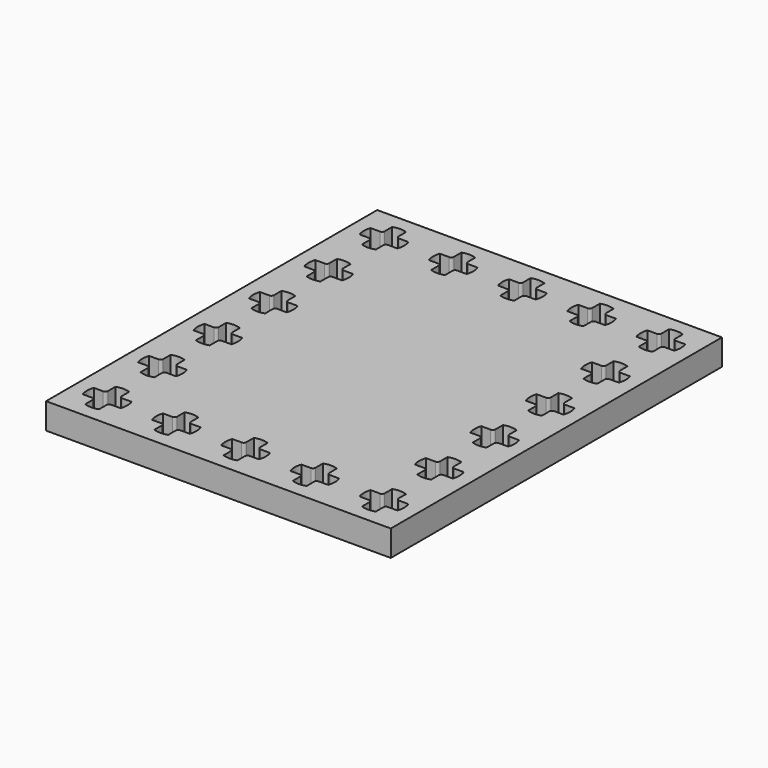
from build123d import *

# Parameters (mm, degrees)
F0_W     = 39.85
F0_H     = 47.85
F1_DEPTH = 3


with BuildPart() as f1:
    # F0 (on Top) → F1 (new body)
    with BuildSketch(Plane.XY):
        Rectangle(F0_W, F0_H)
        with BuildLine():
            ThreePointArc((-16.8, -17.816969), (-16, -17.675), (-15.2, -17.816969))
            Line((-15.2, -17.816969), (-15.2, -18.9))
            ThreePointArc((-15.2, -18.9), (-15.112132, -19.112132), (-14.9, -19.2))
            Line((-14.9, -19.2), (-13.816969, -19.2))
            ThreePointArc((-13.816969, -19.2), (-13.675, -20), (-13.816969, -20.8))
            Line((-13.816969, -20.8), (-14.9, -20.8))
            ThreePointArc((-14.9, -20.8), (-15.112132, -20.887868), (-15.2, -21.1))
            Line((-15.2, -21.1), (-15.2, -22.183031))
            ThreePointArc((-15.2, -22.183031), (-16, -22.325), (-16.8, -22.183031))
            Line((-16.8, -22.183031), (-16.8, -21.1))
            ThreePointArc((-16.8, -21.1), (-16.887868, -20.887868), (-17.1, -20.8))
            Line((-17.1, -20.8), (-18.183031, -20.8))
            ThreePointArc((-18.183031, -20.8), (-18.325, -20), (-18.183031, -19.2))
            Line((-18.183031, -19.2), (-17.1, -19.2))
            ThreePointArc((-17.1, -19.2), (-16.887868, -19.112132), (-16.8, -18.9))
            Line((-16.8, -18.9), (-16.8, -17.816969))
        make_face(mode=Mode.SUBTRACT)
        with BuildLine():
            ThreePointArc((-16.8, -9.816969), (-16, -9.675), (-15.2, -9.816969))
            Line((-15.2, -9.816969), (-15.2, -10.9))
            ThreePointArc((-15.2, -10.9), (-15.112132, -11.112132), (-14.9, -11.2))
            Line((-14.9, -11.2), (-13.816969, -11.2))
            ThreePointArc((-13.816969, -11.2), (-13.675, -12), (-13.816969, -12.8))
            Line((-13.816969, -12.8), (-14.9, -12.8))
            ThreePointArc((-14.9, -12.8), (-15.112132, -12.887868), (-15.2, -13.1))
            Line((-15.2, -13.1), (-15.2, -14.183031))
            ThreePointArc((-15.2, -14.183031), (-16, -14.325), (-16.8, -14.183031))
            Line((-16.8, -14.183031), (-16.8, -13.1))
            ThreePointArc((-16.8, -13.1), (-16.887868, -12.887868), (-17.1, -12.8))
            Line((-17.1, -12.8), (-18.183031, -12.8))
            ThreePointArc((-18.183031, -12.8), (-18.325, -12), (-18.183031, -11.2))
            Line((-18.183031, -11.2), (-17.1, -11.2))
            ThreePointArc((-17.1, -11.2), (-16.887868, -11.112132), (-16.8, -10.9))
            Line((-16.8, -10.9), (-16.8, -9.816969))
        make_face(mode=Mode.SUBTRACT)
        with BuildLine():
            ThreePointArc((-8.8, -17.816969), (-8, -17.675), (-7.2, -17.816969))
            Line((-7.2, -17.816969), (-7.2, -18.9))
            ThreePointArc((-7.2, -18.9), (-7.112132, -19.112132), (-6.9, -19.2))
            Line((-6.9, -19.2), (-5.816969, -19.2))
            ThreePointArc((-5.816969, -19.2), (-5.675, -20), (-5.816969, -20.8))
            Line((-5.816969, -20.8), (-6.9, -20.8))
            ThreePointArc((-6.9, -20.8), (-7.112132, -20.887868), (-7.2, -21.1))
            Line((-7.2, -21.1), (-7.2, -22.183031))
            ThreePointArc((-7.2, -22.183031), (-8, -22.325), (-8.8, -22.183031))
            Line((-8.8, -22.183031), (-8.8, -21.1))
            ThreePointArc((-8.8, -21.1), (-8.887868, -20.887868), (-9.1, -20.8))
            Line((-9.1, -20.8), (-10.183031, -20.8))
            ThreePointArc((-10.183031, -20.8), (-10.325, -20), (-10.183031, -19.2))
            Line((-10.183031, -19.2), (-9.1, -19.2))
            ThreePointArc((-9.1, -19.2), (-8.887868, -19.112132), (-8.8, -18.9))
            Line((-8.8, -18.9), (-8.8, -17.816969))
        make_face(mode=Mode.SUBTRACT)
        with BuildLine():
            ThreePointArc((-8.8, -9.816969), (-8, -9.675), (-7.2, -9.816969))
            Line((-7.2, -9.816969), (-7.2, -10.9))
            ThreePointArc((-7.2, -10.9), (-7.112132, -11.112132), (-6.9, -11.2))
            Line((-6.9, -11.2), (-5.816969, -11.2))
            ThreePointArc((-5.816969, -11.2), (-5.675, -12), (-5.816969, -12.8))
            Line((-5.816969, -12.8), (-6.9, -12.8))
            ThreePointArc((-6.9, -12.8), (-7.112132, -12.887868), (-7.2, -13.1))
            Line((-7.2, -13.1), (-7.2, -14.183031))
            ThreePointArc((-7.2, -14.183031), (-8, -14.325), (-8.8, -14.183031))
            Line((-8.8, -14.183031), (-8.8, -13.1))
            ThreePointArc((-8.8, -13.1), (-8.887868, -12.887868), (-9.1, -12.8))
            Line((-9.1, -12.8), (-10.183031, -12.8))
            ThreePointArc((-10.183031, -12.8), (-10.325, -12), (-10.183031, -11.2))
            Line((-10.183031, -11.2), (-9.1, -11.2))
            ThreePointArc((-9.1, -11.2), (-8.887868, -11.112132), (-8.8, -10.9))
            Line((-8.8, -10.9), (-8.8, -9.816969))
        make_face(mode=Mode.SUBTRACT)
        with BuildLine():
            ThreePointArc((-16.8, -1.816969), (-16, -1.675), (-15.2, -1.816969))
            Line((-15.2, -1.816969), (-15.2, -2.9))
            ThreePointArc((-15.2, -2.9), (-15.112132, -3.112132), (-14.9, -3.2))
            Line((-14.9, -3.2), (-13.816969, -3.2))
            ThreePointArc((-13.816969, -3.2), (-13.675, -4), (-13.816969, -4.8))
            Line((-13.816969, -4.8), (-14.9, -4.8))
            ThreePointArc((-14.9, -4.8), (-15.112132, -4.887868), (-15.2, -5.1))
            Line((-15.2, -5.1), (-15.2, -6.183031))
            ThreePointArc((-15.2, -6.183031), (-16, -6.325), (-16.8, -6.183031))
            Line((-16.8, -6.183031), (-16.8, -5.1))
            ThreePointArc((-16.8, -5.1), (-16.887868, -4.887868), (-17.1, -4.8))
            Line((-17.1, -4.8), (-18.183031, -4.8))
            ThreePointArc((-18.183031, -4.8), (-18.325, -4), (-18.183031, -3.2))
            Line((-18.183031, -3.2), (-17.1, -3.2))
            ThreePointArc((-17.1, -3.2), (-16.887868, -3.112132), (-16.8, -2.9))
            Line((-16.8, -2.9), (-16.8, -1.816969))
        make_face(mode=Mode.SUBTRACT)
        with BuildLine():
            ThreePointArc((-8.8, -1.816969), (-8, -1.675), (-7.2, -1.816969))
            Line((-7.2, -1.816969), (-7.2, -2.9))
            ThreePointArc((-7.2, -2.9), (-7.112132, -3.112132), (-6.9, -3.2))
            Line((-6.9, -3.2), (-5.816969, -3.2))
            ThreePointArc((-5.816969, -3.2), (-5.675, -4), (-5.816969, -4.8))
            Line((-5.816969, -4.8), (-6.9, -4.8))
            ThreePointArc((-6.9, -4.8), (-7.112132, -4.887868), (-7.2, -5.1))
            Line((-7.2, -5.1), (-7.2, -6.183031))
            ThreePointArc((-7.2, -6.183031), (-8, -6.325), (-8.8, -6.183031))
            Line((-8.8, -6.183031), (-8.8, -5.1))
            ThreePointArc((-8.8, -5.1), (-8.887868, -4.887868), (-9.1, -4.8))
            Line((-9.1, -4.8), (-10.183031, -4.8))
            ThreePointArc((-10.183031, -4.8), (-10.325, -4), (-10.183031, -3.2))
            Line((-10.183031, -3.2), (-9.1, -3.2))
            ThreePointArc((-9.1, -3.2), (-8.887868, -3.112132), (-8.8, -2.9))
            Line((-8.8, -2.9), (-8.8, -1.816969))
        make_face(mode=Mode.SUBTRACT)
        with BuildLine():
            ThreePointArc((-0.8, -17.816969), (0, -17.675), (0.8, -17.816969))
            Line((0.8, -17.816969), (0.8, -18.9))
            ThreePointArc((0.8, -18.9), (0.887868, -19.112132), (1.1, -19.2))
            Line((1.1, -19.2), (2.183031, -19.2))
            ThreePointArc((2.183031, -19.2), (2.325, -20), (2.183031, -20.8))
            Line((2.183031, -20.8), (1.1, -20.8))
            ThreePointArc((1.1, -20.8), (0.887868, -20.887868), (0.8, -21.1))
            Line((0.8, -21.1), (0.8, -22.183031))
            ThreePointArc((0.8, -22.183031), (0, -22.325), (-0.8, -22.183031))
            Line((-0.8, -22.183031), (-0.8, -21.1))
            ThreePointArc((-0.8, -21.1), (-0.887868, -20.887868), (-1.1, -20.8))
            Line((-1.1, -20.8), (-2.183031, -20.8))
            ThreePointArc((-2.183031, -20.8), (-2.325, -20), (-2.183031, -19.2))
            Line((-2.183031, -19.2), (-1.1, -19.2))
            ThreePointArc((-1.1, -19.2), (-0.887868, -19.112132), (-0.8, -18.9))
            Line((-0.8, -18.9), (-0.8, -17.816969))
        make_face(mode=Mode.SUBTRACT)
        with BuildLine():
            ThreePointArc((7.2, -17.816969), (8, -17.675), (8.8, -17.816969))
            Line((8.8, -17.816969), (8.8, -18.9))
            ThreePointArc((8.8, -18.9), (8.887868, -19.112132), (9.1, -19.2))
            Line((9.1, -19.2), (10.183031, -19.2))
            ThreePointArc((10.183031, -19.2), (10.325, -20), (10.183031, -20.8))
            Line((10.183031, -20.8), (9.1, -20.8))
            ThreePointArc((9.1, -20.8), (8.887868, -20.887868), (8.8, -21.1))
            Line((8.8, -21.1), (8.8, -22.183031))
            ThreePointArc((8.8, -22.183031), (8, -22.325), (7.2, -22.183031))
            Line((7.2, -22.183031), (7.2, -21.1))
            ThreePointArc((7.2, -21.1), (7.112132, -20.887868), (6.9, -20.8))
            Line((6.9, -20.8), (5.816969, -20.8))
            ThreePointArc((5.816969, -20.8), (5.675, -20), (5.816969, -19.2))
            Line((5.816969, -19.2), (6.9, -19.2))
            ThreePointArc((6.9, -19.2), (7.112132, -19.112132), (7.2, -18.9))
            Line((7.2, -18.9), (7.2, -17.816969))
        make_face(mode=Mode.SUBTRACT)
        with BuildLine():
            ThreePointArc((-0.8, -9.816969), (0, -9.675), (0.8, -9.816969))
            Line((0.8, -9.816969), (0.8, -10.9))
            ThreePointArc((0.8, -10.9), (0.887868, -11.112132), (1.1, -11.2))
            Line((1.1, -11.2), (2.183031, -11.2))
            ThreePointArc((2.183031, -11.2), (2.325, -12), (2.183031, -12.8))
            Line((2.183031, -12.8), (1.1, -12.8))
            ThreePointArc((1.1, -12.8), (0.887868, -12.887868), (0.8, -13.1))
            Line((0.8, -13.1), (0.8, -14.183031))
            ThreePointArc((0.8, -14.183031), (0, -14.325), (-0.8, -14.183031))
            Line((-0.8, -14.183031), (-0.8, -13.1))
            ThreePointArc((-0.8, -13.1), (-0.887868, -12.887868), (-1.1, -12.8))
            Line((-1.1, -12.8), (-2.183031, -12.8))
            ThreePointArc((-2.183031, -12.8), (-2.325, -12), (-2.183031, -11.2))
            Line((-2.183031, -11.2), (-1.1, -11.2))
            ThreePointArc((-1.1, -11.2), (-0.887868, -11.112132), (-0.8, -10.9))
            Line((-0.8, -10.9), (-0.8, -9.816969))
        make_face(mode=Mode.SUBTRACT)
        with BuildLine():
            ThreePointArc((7.2, -9.816969), (8, -9.675), (8.8, -9.816969))
            Line((8.8, -9.816969), (8.8, -10.9))
            ThreePointArc((8.8, -10.9), (8.887868, -11.112132), (9.1, -11.2))
            Line((9.1, -11.2), (10.183031, -11.2))
            ThreePointArc((10.183031, -11.2), (10.325, -12), (10.183031, -12.8))
            Line((10.183031, -12.8), (9.1, -12.8))
            ThreePointArc((9.1, -12.8), (8.887868, -12.887868), (8.8, -13.1))
            Line((8.8, -13.1), (8.8, -14.183031))
            ThreePointArc((8.8, -14.183031), (8, -14.325), (7.2, -14.183031))
            Line((7.2, -14.183031), (7.2, -13.1))
            ThreePointArc((7.2, -13.1), (7.112132, -12.887868), (6.9, -12.8))
            Line((6.9, -12.8), (5.816969, -12.8))
            ThreePointArc((5.816969, -12.8), (5.675, -12), (5.816969, -11.2))
            Line((5.816969, -11.2), (6.9, -11.2))
            ThreePointArc((6.9, -11.2), (7.112132, -11.112132), (7.2, -10.9))
            Line((7.2, -10.9), (7.2, -9.816969))
        make_face(mode=Mode.SUBTRACT)
        with BuildLine():
            ThreePointArc((15.2, -17.816969), (16, -17.675), (16.8, -17.816969))
            Line((16.8, -17.816969), (16.8, -18.9))
            ThreePointArc((16.8, -18.9), (16.887868, -19.112132), (17.1, -19.2))
            Line((17.1, -19.2), (18.183031, -19.2))
            ThreePointArc((18.183031, -19.2), (18.325, -20), (18.183031, -20.8))
            Line((18.183031, -20.8), (17.1, -20.8))
            ThreePointArc((17.1, -20.8), (16.887868, -20.887868), (16.8, -21.1))
            Line((16.8, -21.1), (16.8, -22.183031))
            ThreePointArc((16.8, -22.183031), (16, -22.325), (15.2, -22.183031))
            Line((15.2, -22.183031), (15.2, -21.1))
            ThreePointArc((15.2, -21.1), (15.112132, -20.887868), (14.9, -20.8))
            Line((14.9, -20.8), (13.816969, -20.8))
            ThreePointArc((13.816969, -20.8), (13.675, -20), (13.816969, -19.2))
            Line((13.816969, -19.2), (14.9, -19.2))
            ThreePointArc((14.9, -19.2), (15.112132, -19.112132), (15.2, -18.9))
            Line((15.2, -18.9), (15.2, -17.816969))
        make_face(mode=Mode.SUBTRACT)
        with BuildLine():
            ThreePointArc((15.2, -9.816969), (16, -9.675), (16.8, -9.816969))
            Line((16.8, -9.816969), (16.8, -10.9))
            ThreePointArc((16.8, -10.9), (16.887868, -11.112132), (17.1, -11.2))
            Line((17.1, -11.2), (18.183031, -11.2))
            ThreePointArc((18.183031, -11.2), (18.325, -12), (18.183031, -12.8))
            Line((18.183031, -12.8), (17.1, -12.8))
            ThreePointArc((17.1, -12.8), (16.887868, -12.887868), (16.8, -13.1))
            Line((16.8, -13.1), (16.8, -14.183031))
            ThreePointArc((16.8, -14.183031), (16, -14.325), (15.2, -14.183031))
            Line((15.2, -14.183031), (15.2, -13.1))
            ThreePointArc((15.2, -13.1), (15.112132, -12.887868), (14.9, -12.8))
            Line((14.9, -12.8), (13.816969, -12.8))
            ThreePointArc((13.816969, -12.8), (13.675, -12), (13.816969, -11.2))
            Line((13.816969, -11.2), (14.9, -11.2))
            ThreePointArc((14.9, -11.2), (15.112132, -11.112132), (15.2, -10.9))
            Line((15.2, -10.9), (15.2, -9.816969))
        make_face(mode=Mode.SUBTRACT)
        with BuildLine():
            ThreePointArc((-0.8, -1.816969), (0, -1.675), (0.8, -1.816969))
            Line((0.8, -1.816969), (0.8, -2.9))
            ThreePointArc((0.8, -2.9), (0.887868, -3.112132), (1.1, -3.2))
            Line((1.1, -3.2), (2.183031, -3.2))
            ThreePointArc((2.183031, -3.2), (2.325, -4), (2.183031, -4.8))
            Line((2.183031, -4.8), (1.1, -4.8))
            ThreePointArc((1.1, -4.8), (0.887868, -4.887868), (0.8, -5.1))
            Line((0.8, -5.1), (0.8, -6.183031))
            ThreePointArc((0.8, -6.183031), (0, -6.325), (-0.8, -6.183031))
            Line((-0.8, -6.183031), (-0.8, -5.1))
            ThreePointArc((-0.8, -5.1), (-0.887868, -4.887868), (-1.1, -4.8))
            Line((-1.1, -4.8), (-2.183031, -4.8))
            ThreePointArc((-2.183031, -4.8), (-2.325, -4), (-2.183031, -3.2))
            Line((-2.183031, -3.2), (-1.1, -3.2))
            ThreePointArc((-1.1, -3.2), (-0.887868, -3.112132), (-0.8, -2.9))
            Line((-0.8, -2.9), (-0.8, -1.816969))
        make_face(mode=Mode.SUBTRACT)
        with BuildLine():
            ThreePointArc((7.2, -1.816969), (8, -1.675), (8.8, -1.816969))
            Line((8.8, -1.816969), (8.8, -2.9))
            ThreePointArc((8.8, -2.9), (8.887868, -3.112132), (9.1, -3.2))
            Line((9.1, -3.2), (10.183031, -3.2))
            ThreePointArc((10.183031, -3.2), (10.325, -4), (10.183031, -4.8))
            Line((10.183031, -4.8), (9.1, -4.8))
            ThreePointArc((9.1, -4.8), (8.887868, -4.887868), (8.8, -5.1))
            Line((8.8, -5.1), (8.8, -6.183031))
            ThreePointArc((8.8, -6.183031), (8, -6.325), (7.2, -6.183031))
            Line((7.2, -6.183031), (7.2, -5.1))
            ThreePointArc((7.2, -5.1), (7.112132, -4.887868), (6.9, -4.8))
            Line((6.9, -4.8), (5.816969, -4.8))
            ThreePointArc((5.816969, -4.8), (5.675, -4), (5.816969, -3.2))
            Line((5.816969, -3.2), (6.9, -3.2))
            ThreePointArc((6.9, -3.2), (7.112132, -3.112132), (7.2, -2.9))
            Line((7.2, -2.9), (7.2, -1.816969))
        make_face(mode=Mode.SUBTRACT)
        with BuildLine():
            ThreePointArc((15.2, -1.816969), (16, -1.675), (16.8, -1.816969))
            Line((16.8, -1.816969), (16.8, -2.9))
            ThreePointArc((16.8, -2.9), (16.887868, -3.112132), (17.1, -3.2))
            Line((17.1, -3.2), (18.183031, -3.2))
            ThreePointArc((18.183031, -3.2), (18.325, -4), (18.183031, -4.8))
            Line((18.183031, -4.8), (17.1, -4.8))
            ThreePointArc((17.1, -4.8), (16.887868, -4.887868), (16.8, -5.1))
            Line((16.8, -5.1), (16.8, -6.183031))
            ThreePointArc((16.8, -6.183031), (16, -6.325), (15.2, -6.183031))
            Line((15.2, -6.183031), (15.2, -5.1))
            ThreePointArc((15.2, -5.1), (15.112132, -4.887868), (14.9, -4.8))
            Line((14.9, -4.8), (13.816969, -4.8))
            ThreePointArc((13.816969, -4.8), (13.675, -4), (13.816969, -3.2))
            Line((13.816969, -3.2), (14.9, -3.2))
            ThreePointArc((14.9, -3.2), (15.112132, -3.112132), (15.2, -2.9))
            Line((15.2, -2.9), (15.2, -1.816969))
        make_face(mode=Mode.SUBTRACT)
        with BuildLine():
            ThreePointArc((-16.8, 6.183031), (-16, 6.325), (-15.2, 6.183031))
            Line((-15.2, 6.183031), (-15.2, 5.1))
            ThreePointArc((-15.2, 5.1), (-15.112132, 4.887868), (-14.9, 4.8))
            Line((-14.9, 4.8), (-13.816969, 4.8))
            ThreePointArc((-13.816969, 4.8), (-13.675, 4), (-13.816969, 3.2))
            Line((-13.816969, 3.2), (-14.9, 3.2))
            ThreePointArc((-14.9, 3.2), (-15.112132, 3.112132), (-15.2, 2.9))
            Line((-15.2, 2.9), (-15.2, 1.816969))
            ThreePointArc((-15.2, 1.816969), (-16, 1.675), (-16.8, 1.816969))
            Line((-16.8, 1.816969), (-16.8, 2.9))
            ThreePointArc((-16.8, 2.9), (-16.887868, 3.112132), (-17.1, 3.2))
            Line((-17.1, 3.2), (-18.183031, 3.2))
            ThreePointArc((-18.183031, 3.2), (-18.325, 4), (-18.183031, 4.8))
            Line((-18.183031, 4.8), (-17.1, 4.8))
            ThreePointArc((-17.1, 4.8), (-16.887868, 4.887868), (-16.8, 5.1))
            Line((-16.8, 5.1), (-16.8, 6.183031))
        make_face(mode=Mode.SUBTRACT)
        with BuildLine():
            ThreePointArc((-8.8, 6.183031), (-8, 6.325), (-7.2, 6.183031))
            Line((-7.2, 6.183031), (-7.2, 5.1))
            ThreePointArc((-7.2, 5.1), (-7.112132, 4.887868), (-6.9, 4.8))
            Line((-6.9, 4.8), (-5.816969, 4.8))
            ThreePointArc((-5.816969, 4.8), (-5.675, 4), (-5.816969, 3.2))
            Line((-5.816969, 3.2), (-6.9, 3.2))
            ThreePointArc((-6.9, 3.2), (-7.112132, 3.112132), (-7.2, 2.9))
            Line((-7.2, 2.9), (-7.2, 1.816969))
            ThreePointArc((-7.2, 1.816969), (-8, 1.675), (-8.8, 1.816969))
            Line((-8.8, 1.816969), (-8.8, 2.9))
            ThreePointArc((-8.8, 2.9), (-8.887868, 3.112132), (-9.1, 3.2))
            Line((-9.1, 3.2), (-10.183031, 3.2))
            ThreePointArc((-10.183031, 3.2), (-10.325, 4), (-10.183031, 4.8))
            Line((-10.183031, 4.8), (-9.1, 4.8))
            ThreePointArc((-9.1, 4.8), (-8.887868, 4.887868), (-8.8, 5.1))
            Line((-8.8, 5.1), (-8.8, 6.183031))
        make_face(mode=Mode.SUBTRACT)
        with BuildLine():
            ThreePointArc((-16.8, 14.183031), (-16, 14.325), (-15.2, 14.183031))
            Line((-15.2, 14.183031), (-15.2, 13.1))
            ThreePointArc((-15.2, 13.1), (-15.112132, 12.887868), (-14.9, 12.8))
            Line((-14.9, 12.8), (-13.816969, 12.8))
            ThreePointArc((-13.816969, 12.8), (-13.675, 12), (-13.816969, 11.2))
            Line((-13.816969, 11.2), (-14.9, 11.2))
            ThreePointArc((-14.9, 11.2), (-15.112132, 11.112132), (-15.2, 10.9))
            Line((-15.2, 10.9), (-15.2, 9.816969))
            ThreePointArc((-15.2, 9.816969), (-16, 9.675), (-16.8, 9.816969))
            Line((-16.8, 9.816969), (-16.8, 10.9))
            ThreePointArc((-16.8, 10.9), (-16.887868, 11.112132), (-17.1, 11.2))
            Line((-17.1, 11.2), (-18.183031, 11.2))
            ThreePointArc((-18.183031, 11.2), (-18.325, 12), (-18.183031, 12.8))
            Line((-18.183031, 12.8), (-17.1, 12.8))
            ThreePointArc((-17.1, 12.8), (-16.887868, 12.887868), (-16.8, 13.1))
            Line((-16.8, 13.1), (-16.8, 14.183031))
        make_face(mode=Mode.SUBTRACT)
        with BuildLine():
            ThreePointArc((-16.8, 22.183031), (-16, 22.325), (-15.2, 22.183031))
            Line((-15.2, 22.183031), (-15.2, 21.1))
            ThreePointArc((-15.2, 21.1), (-15.112132, 20.887868), (-14.9, 20.8))
            Line((-14.9, 20.8), (-13.816969, 20.8))
            ThreePointArc((-13.816969, 20.8), (-13.675, 20), (-13.816969, 19.2))
            Line((-13.816969, 19.2), (-14.9, 19.2))
            ThreePointArc((-14.9, 19.2), (-15.112132, 19.112132), (-15.2, 18.9))
            Line((-15.2, 18.9), (-15.2, 17.816969))
            ThreePointArc((-15.2, 17.816969), (-16, 17.675), (-16.8, 17.816969))
            Line((-16.8, 17.816969), (-16.8, 18.9))
            ThreePointArc((-16.8, 18.9), (-16.887868, 19.112132), (-17.1, 19.2))
            Line((-17.1, 19.2), (-18.183031, 19.2))
            ThreePointArc((-18.183031, 19.2), (-18.325, 20), (-18.183031, 20.8))
            Line((-18.183031, 20.8), (-17.1, 20.8))
            ThreePointArc((-17.1, 20.8), (-16.887868, 20.887868), (-16.8, 21.1))
            Line((-16.8, 21.1), (-16.8, 22.183031))
        make_face(mode=Mode.SUBTRACT)
        with BuildLine():
            ThreePointArc((-8.8, 14.183031), (-8, 14.325), (-7.2, 14.183031))
            Line((-7.2, 14.183031), (-7.2, 13.1))
            ThreePointArc((-7.2, 13.1), (-7.112132, 12.887868), (-6.9, 12.8))
            Line((-6.9, 12.8), (-5.816969, 12.8))
            ThreePointArc((-5.816969, 12.8), (-5.675, 12), (-5.816969, 11.2))
            Line((-5.816969, 11.2), (-6.9, 11.2))
            ThreePointArc((-6.9, 11.2), (-7.112132, 11.112132), (-7.2, 10.9))
            Line((-7.2, 10.9), (-7.2, 9.816969))
            ThreePointArc((-7.2, 9.816969), (-8, 9.675), (-8.8, 9.816969))
            Line((-8.8, 9.816969), (-8.8, 10.9))
            ThreePointArc((-8.8, 10.9), (-8.887868, 11.112132), (-9.1, 11.2))
            Line((-9.1, 11.2), (-10.183031, 11.2))
            ThreePointArc((-10.183031, 11.2), (-10.325, 12), (-10.183031, 12.8))
            Line((-10.183031, 12.8), (-9.1, 12.8))
            ThreePointArc((-9.1, 12.8), (-8.887868, 12.887868), (-8.8, 13.1))
            Line((-8.8, 13.1), (-8.8, 14.183031))
        make_face(mode=Mode.SUBTRACT)
        with BuildLine():
            ThreePointArc((-8.8, 22.183031), (-8, 22.325), (-7.2, 22.183031))
            Line((-7.2, 22.183031), (-7.2, 21.1))
            ThreePointArc((-7.2, 21.1), (-7.112132, 20.887868), (-6.9, 20.8))
            Line((-6.9, 20.8), (-5.816969, 20.8))
            ThreePointArc((-5.816969, 20.8), (-5.675, 20), (-5.816969, 19.2))
            Line((-5.816969, 19.2), (-6.9, 19.2))
            ThreePointArc((-6.9, 19.2), (-7.112132, 19.112132), (-7.2, 18.9))
            Line((-7.2, 18.9), (-7.2, 17.816969))
            ThreePointArc((-7.2, 17.816969), (-8, 17.675), (-8.8, 17.816969))
            Line((-8.8, 17.816969), (-8.8, 18.9))
            ThreePointArc((-8.8, 18.9), (-8.887868, 19.112132), (-9.1, 19.2))
            Line((-9.1, 19.2), (-10.183031, 19.2))
            ThreePointArc((-10.183031, 19.2), (-10.325, 20), (-10.183031, 20.8))
            Line((-10.183031, 20.8), (-9.1, 20.8))
            ThreePointArc((-9.1, 20.8), (-8.887868, 20.887868), (-8.8, 21.1))
            Line((-8.8, 21.1), (-8.8, 22.183031))
        make_face(mode=Mode.SUBTRACT)
        with BuildLine():
            ThreePointArc((-0.8, 6.183031), (0, 6.325), (0.8, 6.183031))
            Line((0.8, 6.183031), (0.8, 5.1))
            ThreePointArc((0.8, 5.1), (0.887868, 4.887868), (1.1, 4.8))
            Line((1.1, 4.8), (2.183031, 4.8))
            ThreePointArc((2.183031, 4.8), (2.325, 4), (2.183031, 3.2))
            Line((2.183031, 3.2), (1.1, 3.2))
            ThreePointArc((1.1, 3.2), (0.887868, 3.112132), (0.8, 2.9))
            Line((0.8, 2.9), (0.8, 1.816969))
            ThreePointArc((0.8, 1.816969), (0, 1.675), (-0.8, 1.816969))
            Line((-0.8, 1.816969), (-0.8, 2.9))
            ThreePointArc((-0.8, 2.9), (-0.887868, 3.112132), (-1.1, 3.2))
            Line((-1.1, 3.2), (-2.183031, 3.2))
            ThreePointArc((-2.183031, 3.2), (-2.325, 4), (-2.183031, 4.8))
            Line((-2.183031, 4.8), (-1.1, 4.8))
            ThreePointArc((-1.1, 4.8), (-0.887868, 4.887868), (-0.8, 5.1))
            Line((-0.8, 5.1), (-0.8, 6.183031))
        make_face(mode=Mode.SUBTRACT)
        with BuildLine():
            ThreePointArc((7.2, 6.183031), (8, 6.325), (8.8, 6.183031))
            Line((8.8, 6.183031), (8.8, 5.1))
            ThreePointArc((8.8, 5.1), (8.887868, 4.887868), (9.1, 4.8))
            Line((9.1, 4.8), (10.183031, 4.8))
            ThreePointArc((10.183031, 4.8), (10.325, 4), (10.183031, 3.2))
            Line((10.183031, 3.2), (9.1, 3.2))
            ThreePointArc((9.1, 3.2), (8.887868, 3.112132), (8.8, 2.9))
            Line((8.8, 2.9), (8.8, 1.816969))
            ThreePointArc((8.8, 1.816969), (8, 1.675), (7.2, 1.816969))
            Line((7.2, 1.816969), (7.2, 2.9))
            ThreePointArc((7.2, 2.9), (7.112132, 3.112132), (6.9, 3.2))
            Line((6.9, 3.2), (5.816969, 3.2))
            ThreePointArc((5.816969, 3.2), (5.675, 4), (5.816969, 4.8))
            Line((5.816969, 4.8), (6.9, 4.8))
            ThreePointArc((6.9, 4.8), (7.112132, 4.887868), (7.2, 5.1))
            Line((7.2, 5.1), (7.2, 6.183031))
        make_face(mode=Mode.SUBTRACT)
        with BuildLine():
            ThreePointArc((15.2, 6.183031), (16, 6.325), (16.8, 6.183031))
            Line((16.8, 6.183031), (16.8, 5.1))
            ThreePointArc((16.8, 5.1), (16.887868, 4.887868), (17.1, 4.8))
            Line((17.1, 4.8), (18.183031, 4.8))
            ThreePointArc((18.183031, 4.8), (18.325, 4), (18.183031, 3.2))
            Line((18.183031, 3.2), (17.1, 3.2))
            ThreePointArc((17.1, 3.2), (16.887868, 3.112132), (16.8, 2.9))
            Line((16.8, 2.9), (16.8, 1.816969))
            ThreePointArc((16.8, 1.816969), (16, 1.675), (15.2, 1.816969))
            Line((15.2, 1.816969), (15.2, 2.9))
            ThreePointArc((15.2, 2.9), (15.112132, 3.112132), (14.9, 3.2))
            Line((14.9, 3.2), (13.816969, 3.2))
            ThreePointArc((13.816969, 3.2), (13.675, 4), (13.816969, 4.8))
            Line((13.816969, 4.8), (14.9, 4.8))
            ThreePointArc((14.9, 4.8), (15.112132, 4.887868), (15.2, 5.1))
            Line((15.2, 5.1), (15.2, 6.183031))
        make_face(mode=Mode.SUBTRACT)
        with BuildLine():
            ThreePointArc((-0.8, 14.183031), (0, 14.325), (0.8, 14.183031))
            Line((0.8, 14.183031), (0.8, 13.1))
            ThreePointArc((0.8, 13.1), (0.887868, 12.887868), (1.1, 12.8))
            Line((1.1, 12.8), (2.183031, 12.8))
            ThreePointArc((2.183031, 12.8), (2.325, 12), (2.183031, 11.2))
            Line((2.183031, 11.2), (1.1, 11.2))
            ThreePointArc((1.1, 11.2), (0.887868, 11.112132), (0.8, 10.9))
            Line((0.8, 10.9), (0.8, 9.816969))
            ThreePointArc((0.8, 9.816969), (0, 9.675), (-0.8, 9.816969))
            Line((-0.8, 9.816969), (-0.8, 10.9))
            ThreePointArc((-0.8, 10.9), (-0.887868, 11.112132), (-1.1, 11.2))
            Line((-1.1, 11.2), (-2.183031, 11.2))
            ThreePointArc((-2.183031, 11.2), (-2.325, 12), (-2.183031, 12.8))
            Line((-2.183031, 12.8), (-1.1, 12.8))
            ThreePointArc((-1.1, 12.8), (-0.887868, 12.887868), (-0.8, 13.1))
            Line((-0.8, 13.1), (-0.8, 14.183031))
        make_face(mode=Mode.SUBTRACT)
        with BuildLine():
            ThreePointArc((7.2, 14.183031), (8, 14.325), (8.8, 14.183031))
            Line((8.8, 14.183031), (8.8, 13.1))
            ThreePointArc((8.8, 13.1), (8.887868, 12.887868), (9.1, 12.8))
            Line((9.1, 12.8), (10.183031, 12.8))
            ThreePointArc((10.183031, 12.8), (10.325, 12), (10.183031, 11.2))
            Line((10.183031, 11.2), (9.1, 11.2))
            ThreePointArc((9.1, 11.2), (8.887868, 11.112132), (8.8, 10.9))
            Line((8.8, 10.9), (8.8, 9.816969))
            ThreePointArc((8.8, 9.816969), (8, 9.675), (7.2, 9.816969))
            Line((7.2, 9.816969), (7.2, 10.9))
            ThreePointArc((7.2, 10.9), (7.112132, 11.112132), (6.9, 11.2))
            Line((6.9, 11.2), (5.816969, 11.2))
            ThreePointArc((5.816969, 11.2), (5.675, 12), (5.816969, 12.8))
            Line((5.816969, 12.8), (6.9, 12.8))
            ThreePointArc((6.9, 12.8), (7.112132, 12.887868), (7.2, 13.1))
            Line((7.2, 13.1), (7.2, 14.183031))
        make_face(mode=Mode.SUBTRACT)
        with BuildLine():
            ThreePointArc((-0.8, 22.183031), (0, 22.325), (0.8, 22.183031))
            Line((0.8, 22.183031), (0.8, 21.1))
            ThreePointArc((0.8, 21.1), (0.887868, 20.887868), (1.1, 20.8))
            Line((1.1, 20.8), (2.183031, 20.8))
            ThreePointArc((2.183031, 20.8), (2.325, 20), (2.183031, 19.2))
            Line((2.183031, 19.2), (1.1, 19.2))
            ThreePointArc((1.1, 19.2), (0.887868, 19.112132), (0.8, 18.9))
            Line((0.8, 18.9), (0.8, 17.816969))
            ThreePointArc((0.8, 17.816969), (0, 17.675), (-0.8, 17.816969))
            Line((-0.8, 17.816969), (-0.8, 18.9))
            ThreePointArc((-0.8, 18.9), (-0.887868, 19.112132), (-1.1, 19.2))
            Line((-1.1, 19.2), (-2.183031, 19.2))
            ThreePointArc((-2.183031, 19.2), (-2.325, 20), (-2.183031, 20.8))
            Line((-2.183031, 20.8), (-1.1, 20.8))
            ThreePointArc((-1.1, 20.8), (-0.887868, 20.887868), (-0.8, 21.1))
            Line((-0.8, 21.1), (-0.8, 22.183031))
        make_face(mode=Mode.SUBTRACT)
        with BuildLine():
            ThreePointArc((7.2, 22.183031), (8, 22.325), (8.8, 22.183031))
            Line((8.8, 22.183031), (8.8, 21.1))
            ThreePointArc((8.8, 21.1), (8.887868, 20.887868), (9.1, 20.8))
            Line((9.1, 20.8), (10.183031, 20.8))
            ThreePointArc((10.183031, 20.8), (10.325, 20), (10.183031, 19.2))
            Line((10.183031, 19.2), (9.1, 19.2))
            ThreePointArc((9.1, 19.2), (8.887868, 19.112132), (8.8, 18.9))
            Line((8.8, 18.9), (8.8, 17.816969))
            ThreePointArc((8.8, 17.816969), (8, 17.675), (7.2, 17.816969))
            Line((7.2, 17.816969), (7.2, 18.9))
            ThreePointArc((7.2, 18.9), (7.112132, 19.112132), (6.9, 19.2))
            Line((6.9, 19.2), (5.816969, 19.2))
            ThreePointArc((5.816969, 19.2), (5.675, 20), (5.816969, 20.8))
            Line((5.816969, 20.8), (6.9, 20.8))
            ThreePointArc((6.9, 20.8), (7.112132, 20.887868), (7.2, 21.1))
            Line((7.2, 21.1), (7.2, 22.183031))
        make_face(mode=Mode.SUBTRACT)
        with BuildLine():
            ThreePointArc((15.2, 14.183031), (16, 14.325), (16.8, 14.183031))
            Line((16.8, 14.183031), (16.8, 13.1))
            ThreePointArc((16.8, 13.1), (16.887868, 12.887868), (17.1, 12.8))
            Line((17.1, 12.8), (18.183031, 12.8))
            ThreePointArc((18.183031, 12.8), (18.325, 12), (18.183031, 11.2))
            Line((18.183031, 11.2), (17.1, 11.2))
            ThreePointArc((17.1, 11.2), (16.887868, 11.112132), (16.8, 10.9))
            Line((16.8, 10.9), (16.8, 9.816969))
            ThreePointArc((16.8, 9.816969), (16, 9.675), (15.2, 9.816969))
            Line((15.2, 9.816969), (15.2, 10.9))
            ThreePointArc((15.2, 10.9), (15.112132, 11.112132), (14.9, 11.2))
            Line((14.9, 11.2), (13.816969, 11.2))
            ThreePointArc((13.816969, 11.2), (13.675, 12), (13.816969, 12.8))
            Line((13.816969, 12.8), (14.9, 12.8))
            ThreePointArc((14.9, 12.8), (15.112132, 12.887868), (15.2, 13.1))
            Line((15.2, 13.1), (15.2, 14.183031))
        make_face(mode=Mode.SUBTRACT)
        with BuildLine():
            ThreePointArc((15.2, 22.183031), (16, 22.325), (16.8, 22.183031))
            Line((16.8, 22.183031), (16.8, 21.1))
            ThreePointArc((16.8, 21.1), (16.887868, 20.887868), (17.1, 20.8))
            Line((17.1, 20.8), (18.183031, 20.8))
            ThreePointArc((18.183031, 20.8), (18.325, 20), (18.183031, 19.2))
            Line((18.183031, 19.2), (17.1, 19.2))
            ThreePointArc((17.1, 19.2), (16.887868, 19.112132), (16.8, 18.9))
            Line((16.8, 18.9), (16.8, 17.816969))
            ThreePointArc((16.8, 17.816969), (16, 17.675), (15.2, 17.816969))
            Line((15.2, 17.816969), (15.2, 18.9))
            ThreePointArc((15.2, 18.9), (15.112132, 19.112132), (14.9, 19.2))
            Line((14.9, 19.2), (13.816969, 19.2))
            ThreePointArc((13.816969, 19.2), (13.675, 20), (13.816969, 20.8))
            Line((13.816969, 20.8), (14.9, 20.8))
            ThreePointArc((14.9, 20.8), (15.112132, 20.887868), (15.2, 21.1))
            Line((15.2, 21.1), (15.2, 22.183031))
        make_face(mode=Mode.SUBTRACT)
        with BuildLine():
            Line((-7.2, 13.1), (-7.2, 14.183031))
            ThreePointArc((-7.2, 14.183031), (-8, 14.325), (-8.8, 14.183031))
            Line((-8.8, 14.183031), (-8.8, 13.1))
            ThreePointArc((-8.8, 13.1), (-8.887868, 12.887868), (-9.1, 12.8))
            Line((-9.1, 12.8), (-10.183031, 12.8))
            ThreePointArc((-10.183031, 12.8), (-10.325, 12), (-10.183031, 11.2))
            Line((-10.183031, 11.2), (-9.1, 11.2))
            ThreePointArc((-9.1, 11.2), (-8.887868, 11.112132), (-8.8, 10.9))
            Line((-8.8, 10.9), (-8.8, 9.816969))
            ThreePointArc((-8.8, 9.816969), (-8, 9.675), (-7.2, 9.816969))
            Line((-7.2, 9.816969), (-7.2, 10.9))
            ThreePointArc((-7.2, 10.9), (-7.112132, 11.112132), (-6.9, 11.2))
            Line((-6.9, 11.2), (-5.816969, 11.2))
            ThreePointArc((-5.816969, 11.2), (-5.675, 12), (-5.816969, 12.8))
            Line((-5.816969, 12.8), (-6.9, 12.8))
            ThreePointArc((-6.9, 12.8), (-7.112132, 12.887868), (-7.2, 13.1))
        make_face()
        with BuildLine():
            Line((-7.2, 5.1), (-7.2, 6.183031))
            ThreePointArc((-7.2, 6.183031), (-8, 6.325), (-8.8, 6.183031))
            Line((-8.8, 6.183031), (-8.8, 5.1))
            ThreePointArc((-8.8, 5.1), (-8.887868, 4.887868), (-9.1, 4.8))
            Line((-9.1, 4.8), (-10.183031, 4.8))
            ThreePointArc((-10.183031, 4.8), (-10.325, 4), (-10.183031, 3.2))
            Line((-10.183031, 3.2), (-9.1, 3.2))
            ThreePointArc((-9.1, 3.2), (-8.887868, 3.112132), (-8.8, 2.9))
            Line((-8.8, 2.9), (-8.8, 1.816969))
            ThreePointArc((-8.8, 1.816969), (-8, 1.675), (-7.2, 1.816969))
            Line((-7.2, 1.816969), (-7.2, 2.9))
            ThreePointArc((-7.2, 2.9), (-7.112132, 3.112132), (-6.9, 3.2))
            Line((-6.9, 3.2), (-5.816969, 3.2))
            ThreePointArc((-5.816969, 3.2), (-5.675, 4), (-5.816969, 4.8))
            Line((-5.816969, 4.8), (-6.9, 4.8))
            ThreePointArc((-6.9, 4.8), (-7.112132, 4.887868), (-7.2, 5.1))
        make_face()
        with BuildLine():
            Line((-7.2, -2.9), (-7.2, -1.816969))
            ThreePointArc((-7.2, -1.816969), (-8, -1.675), (-8.8, -1.816969))
            Line((-8.8, -1.816969), (-8.8, -2.9))
            ThreePointArc((-8.8, -2.9), (-8.887868, -3.112132), (-9.1, -3.2))
            Line((-9.1, -3.2), (-10.183031, -3.2))
            ThreePointArc((-10.183031, -3.2), (-10.325, -4), (-10.183031, -4.8))
            Line((-10.183031, -4.8), (-9.1, -4.8))
            ThreePointArc((-9.1, -4.8), (-8.887868, -4.887868), (-8.8, -5.1))
            Line((-8.8, -5.1), (-8.8, -6.183031))
            ThreePointArc((-8.8, -6.183031), (-8, -6.325), (-7.2, -6.183031))
            Line((-7.2, -6.183031), (-7.2, -5.1))
            ThreePointArc((-7.2, -5.1), (-7.112132, -4.887868), (-6.9, -4.8))
            Line((-6.9, -4.8), (-5.816969, -4.8))
            ThreePointArc((-5.816969, -4.8), (-5.675, -4), (-5.816969, -3.2))
            Line((-5.816969, -3.2), (-6.9, -3.2))
            ThreePointArc((-6.9, -3.2), (-7.112132, -3.112132), (-7.2, -2.9))
        make_face()
        with BuildLine():
            Line((-7.2, -10.9), (-7.2, -9.816969))
            ThreePointArc((-7.2, -9.816969), (-8, -9.675), (-8.8, -9.816969))
            Line((-8.8, -9.816969), (-8.8, -10.9))
            ThreePointArc((-8.8, -10.9), (-8.887868, -11.112132), (-9.1, -11.2))
            Line((-9.1, -11.2), (-10.183031, -11.2))
            ThreePointArc((-10.183031, -11.2), (-10.325, -12), (-10.183031, -12.8))
            Line((-10.183031, -12.8), (-9.1, -12.8))
            ThreePointArc((-9.1, -12.8), (-8.887868, -12.887868), (-8.8, -13.1))
            Line((-8.8, -13.1), (-8.8, -14.183031))
            ThreePointArc((-8.8, -14.183031), (-8, -14.325), (-7.2, -14.183031))
            Line((-7.2, -14.183031), (-7.2, -13.1))
            ThreePointArc((-7.2, -13.1), (-7.112132, -12.887868), (-6.9, -12.8))
            Line((-6.9, -12.8), (-5.816969, -12.8))
            ThreePointArc((-5.816969, -12.8), (-5.675, -12), (-5.816969, -11.2))
            Line((-5.816969, -11.2), (-6.9, -11.2))
            ThreePointArc((-6.9, -11.2), (-7.112132, -11.112132), (-7.2, -10.9))
        make_face()
        with BuildLine():
            Line((0.8, 13.1), (0.8, 14.183031))
            ThreePointArc((0.8, 14.183031), (0, 14.325), (-0.8, 14.183031))
            Line((-0.8, 14.183031), (-0.8, 13.1))
            ThreePointArc((-0.8, 13.1), (-0.887868, 12.887868), (-1.1, 12.8))
            Line((-1.1, 12.8), (-2.183031, 12.8))
            ThreePointArc((-2.183031, 12.8), (-2.325, 12), (-2.183031, 11.2))
            Line((-2.183031, 11.2), (-1.1, 11.2))
            ThreePointArc((-1.1, 11.2), (-0.887868, 11.112132), (-0.8, 10.9))
            Line((-0.8, 10.9), (-0.8, 9.816969))
            ThreePointArc((-0.8, 9.816969), (0, 9.675), (0.8, 9.816969))
            Line((0.8, 9.816969), (0.8, 10.9))
            ThreePointArc((0.8, 10.9), (0.887868, 11.112132), (1.1, 11.2))
            Line((1.1, 11.2), (2.183031, 11.2))
            ThreePointArc((2.183031, 11.2), (2.325, 12), (2.183031, 12.8))
            Line((2.183031, 12.8), (1.1, 12.8))
            ThreePointArc((1.1, 12.8), (0.887868, 12.887868), (0.8, 13.1))
        make_face()
        with BuildLine():
            Line((0.8, 5.1), (0.8, 6.183031))
            ThreePointArc((0.8, 6.183031), (0, 6.325), (-0.8, 6.183031))
            Line((-0.8, 6.183031), (-0.8, 5.1))
            ThreePointArc((-0.8, 5.1), (-0.887868, 4.887868), (-1.1, 4.8))
            Line((-1.1, 4.8), (-2.183031, 4.8))
            ThreePointArc((-2.183031, 4.8), (-2.325, 4), (-2.183031, 3.2))
            Line((-2.183031, 3.2), (-1.1, 3.2))
            ThreePointArc((-1.1, 3.2), (-0.887868, 3.112132), (-0.8, 2.9))
            Line((-0.8, 2.9), (-0.8, 1.816969))
            ThreePointArc((-0.8, 1.816969), (0, 1.675), (0.8, 1.816969))
            Line((0.8, 1.816969), (0.8, 2.9))
            ThreePointArc((0.8, 2.9), (0.887868, 3.112132), (1.1, 3.2))
            Line((1.1, 3.2), (2.183031, 3.2))
            ThreePointArc((2.183031, 3.2), (2.325, 4), (2.183031, 4.8))
            Line((2.183031, 4.8), (1.1, 4.8))
            ThreePointArc((1.1, 4.8), (0.887868, 4.887868), (0.8, 5.1))
        make_face()
        with BuildLine():
            Line((0.8, -2.9), (0.8, -1.816969))
            ThreePointArc((0.8, -1.816969), (0, -1.675), (-0.8, -1.816969))
            Line((-0.8, -1.816969), (-0.8, -2.9))
            ThreePointArc((-0.8, -2.9), (-0.887868, -3.112132), (-1.1, -3.2))
            Line((-1.1, -3.2), (-2.183031, -3.2))
            ThreePointArc((-2.183031, -3.2), (-2.325, -4), (-2.183031, -4.8))
            Line((-2.183031, -4.8), (-1.1, -4.8))
            ThreePointArc((-1.1, -4.8), (-0.887868, -4.887868), (-0.8, -5.1))
            Line((-0.8, -5.1), (-0.8, -6.183031))
            ThreePointArc((-0.8, -6.183031), (0, -6.325), (0.8, -6.183031))
            Line((0.8, -6.183031), (0.8, -5.1))
            ThreePointArc((0.8, -5.1), (0.887868, -4.887868), (1.1, -4.8))
            Line((1.1, -4.8), (2.183031, -4.8))
            ThreePointArc((2.183031, -4.8), (2.325, -4), (2.183031, -3.2))
            Line((2.183031, -3.2), (1.1, -3.2))
            ThreePointArc((1.1, -3.2), (0.887868, -3.112132), (0.8, -2.9))
        make_face()
        with BuildLine():
            Line((0.8, -10.9), (0.8, -9.816969))
            ThreePointArc((0.8, -9.816969), (0, -9.675), (-0.8, -9.816969))
            Line((-0.8, -9.816969), (-0.8, -10.9))
            ThreePointArc((-0.8, -10.9), (-0.887868, -11.112132), (-1.1, -11.2))
            Line((-1.1, -11.2), (-2.183031, -11.2))
            ThreePointArc((-2.183031, -11.2), (-2.325, -12), (-2.183031, -12.8))
            Line((-2.183031, -12.8), (-1.1, -12.8))
            ThreePointArc((-1.1, -12.8), (-0.887868, -12.887868), (-0.8, -13.1))
            Line((-0.8, -13.1), (-0.8, -14.183031))
            ThreePointArc((-0.8, -14.183031), (0, -14.325), (0.8, -14.183031))
            Line((0.8, -14.183031), (0.8, -13.1))
            ThreePointArc((0.8, -13.1), (0.887868, -12.887868), (1.1, -12.8))
            Line((1.1, -12.8), (2.183031, -12.8))
            ThreePointArc((2.183031, -12.8), (2.325, -12), (2.183031, -11.2))
            Line((2.183031, -11.2), (1.1, -11.2))
            ThreePointArc((1.1, -11.2), (0.887868, -11.112132), (0.8, -10.9))
        make_face()
        with BuildLine():
            Line((8.8, -10.9), (8.8, -9.816969))
            ThreePointArc((8.8, -9.816969), (8, -9.675), (7.2, -9.816969))
            Line((7.2, -9.816969), (7.2, -10.9))
            ThreePointArc((7.2, -10.9), (7.112132, -11.112132), (6.9, -11.2))
            Line((6.9, -11.2), (5.816969, -11.2))
            ThreePointArc((5.816969, -11.2), (5.675, -12), (5.816969, -12.8))
            Line((5.816969, -12.8), (6.9, -12.8))
            ThreePointArc((6.9, -12.8), (7.112132, -12.887868), (7.2, -13.1))
            Line((7.2, -13.1), (7.2, -14.183031))
            ThreePointArc((7.2, -14.183031), (8, -14.325), (8.8, -14.183031))
            Line((8.8, -14.183031), (8.8, -13.1))
            ThreePointArc((8.8, -13.1), (8.887868, -12.887868), (9.1, -12.8))
            Line((9.1, -12.8), (10.183031, -12.8))
            ThreePointArc((10.183031, -12.8), (10.325, -12), (10.183031, -11.2))
            Line((10.183031, -11.2), (9.1, -11.2))
            ThreePointArc((9.1, -11.2), (8.887868, -11.112132), (8.8, -10.9))
        make_face()
        with BuildLine():
            Line((8.8, -2.9), (8.8, -1.816969))
            ThreePointArc((8.8, -1.816969), (8, -1.675), (7.2, -1.816969))
            Line((7.2, -1.816969), (7.2, -2.9))
            ThreePointArc((7.2, -2.9), (7.112132, -3.112132), (6.9, -3.2))
            Line((6.9, -3.2), (5.816969, -3.2))
            ThreePointArc((5.816969, -3.2), (5.675, -4), (5.816969, -4.8))
            Line((5.816969, -4.8), (6.9, -4.8))
            ThreePointArc((6.9, -4.8), (7.112132, -4.887868), (7.2, -5.1))
            Line((7.2, -5.1), (7.2, -6.183031))
            ThreePointArc((7.2, -6.183031), (8, -6.325), (8.8, -6.183031))
            Line((8.8, -6.183031), (8.8, -5.1))
            ThreePointArc((8.8, -5.1), (8.887868, -4.887868), (9.1, -4.8))
            Line((9.1, -4.8), (10.183031, -4.8))
            ThreePointArc((10.183031, -4.8), (10.325, -4), (10.183031, -3.2))
            Line((10.183031, -3.2), (9.1, -3.2))
            ThreePointArc((9.1, -3.2), (8.887868, -3.112132), (8.8, -2.9))
        make_face()
        with BuildLine():
            Line((8.8, 5.1), (8.8, 6.183031))
            ThreePointArc((8.8, 6.183031), (8, 6.325), (7.2, 6.183031))
            Line((7.2, 6.183031), (7.2, 5.1))
            ThreePointArc((7.2, 5.1), (7.112132, 4.887868), (6.9, 4.8))
            Line((6.9, 4.8), (5.816969, 4.8))
            ThreePointArc((5.816969, 4.8), (5.675, 4), (5.816969, 3.2))
            Line((5.816969, 3.2), (6.9, 3.2))
            ThreePointArc((6.9, 3.2), (7.112132, 3.112132), (7.2, 2.9))
            Line((7.2, 2.9), (7.2, 1.816969))
            ThreePointArc((7.2, 1.816969), (8, 1.675), (8.8, 1.816969))
            Line((8.8, 1.816969), (8.8, 2.9))
            ThreePointArc((8.8, 2.9), (8.887868, 3.112132), (9.1, 3.2))
            Line((9.1, 3.2), (10.183031, 3.2))
            ThreePointArc((10.183031, 3.2), (10.325, 4), (10.183031, 4.8))
            Line((10.183031, 4.8), (9.1, 4.8))
            ThreePointArc((9.1, 4.8), (8.887868, 4.887868), (8.8, 5.1))
        make_face()
        with BuildLine():
            Line((8.8, 13.1), (8.8, 14.183031))
            ThreePointArc((8.8, 14.183031), (8, 14.325), (7.2, 14.183031))
            Line((7.2, 14.183031), (7.2, 13.1))
            ThreePointArc((7.2, 13.1), (7.112132, 12.887868), (6.9, 12.8))
            Line((6.9, 12.8), (5.816969, 12.8))
            ThreePointArc((5.816969, 12.8), (5.675, 12), (5.816969, 11.2))
            Line((5.816969, 11.2), (6.9, 11.2))
            ThreePointArc((6.9, 11.2), (7.112132, 11.112132), (7.2, 10.9))
            Line((7.2, 10.9), (7.2, 9.816969))
            ThreePointArc((7.2, 9.816969), (8, 9.675), (8.8, 9.816969))
            Line((8.8, 9.816969), (8.8, 10.9))
            ThreePointArc((8.8, 10.9), (8.887868, 11.112132), (9.1, 11.2))
            Line((9.1, 11.2), (10.183031, 11.2))
            ThreePointArc((10.183031, 11.2), (10.325, 12), (10.183031, 12.8))
            Line((10.183031, 12.8), (9.1, 12.8))
            ThreePointArc((9.1, 12.8), (8.887868, 12.887868), (8.8, 13.1))
        make_face()
    extrude(amount=F1_DEPTH)


solid = f1.part
